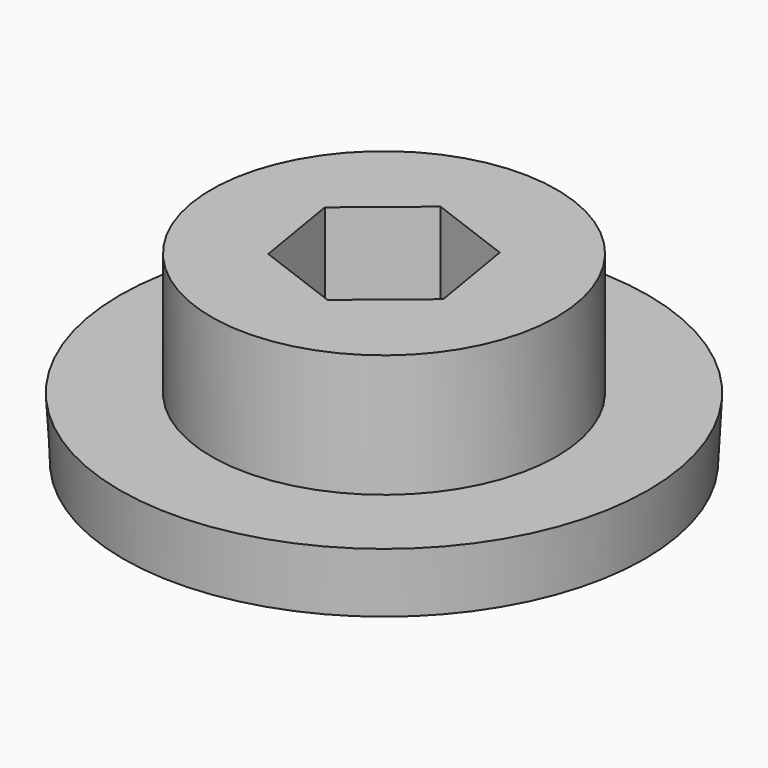
from build123d import *

# Parameters (mm, degrees)
F0_R     = 21.59
F0_R_2   = 14.2875
F1_DEPTH = 5.08
F1_TAPER = -3
F2_DEPTH = 15.24


with BuildPart() as f1:
    # F0 (on Top) → F1 (new body)
    with BuildSketch(Plane.XY):
        with Locations((-39.1328502254, 30.9806439229)):
            Circle(F0_R)
        with Locations((-39.1328502254, 30.9806439229)):
            Circle(F0_R_2, mode=Mode.SUBTRACT)
    extrude(amount=F1_DEPTH, taper=F1_TAPER)

    # F0 (on Top) → F2 (join)
    with BuildSketch(Plane.XY):
        with Locations((-39.1328502254, 30.9806439229)):
            Circle(F0_R_2)
        Polygon((-40.3579410266, 38.3586195618), (-33.3558812942, 35.7305914981), (-32.130790493, 28.3526158592), (-37.9077594242, 23.602668284), (-44.9098191566, 26.2306963477), (-46.1349099578, 33.6086719866), align=None, mode=Mode.SUBTRACT)
    extrude(amount=F2_DEPTH)


solid = f1.part
